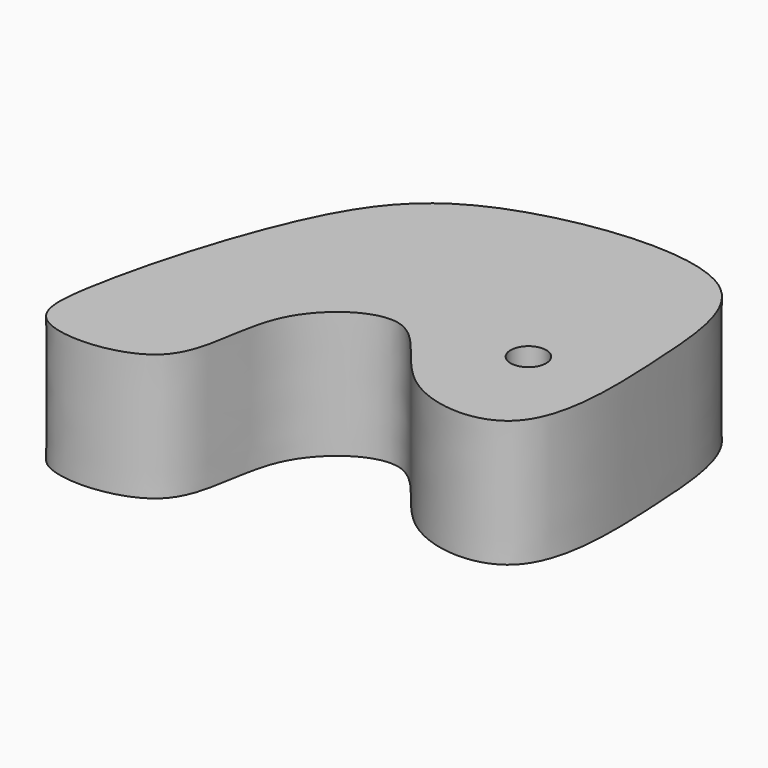
from build123d import *

# Parameters (mm, degrees)
F1_DEPTH = 25.4
F3_D     = 7.1374


with BuildPart() as f1:
    # F0 (on Top) → F1 (new body)
    with BuildSketch(Plane.XY):
        with BuildLine():
            add(Edge.make_bspline(
                [(-42.3956364393, -30.242299661), (-40.64086189, -19.2945110285), (-32.0166547854, 11.7834708258), (-13.9013101535, 34.9772320728), (39.9770178927, 40.967089314), (42.5505887471, 8.1134903983), (44.0755584278, -28.6665401407), (14.9225861746, -26.2753491243), (5.5185670036, -2.3001841673), (-17.0716638371, -17.2712878151), (-12.6816024674, -44.1229681057), (-43.551447393, -46.0277627868), (-43.3690874153, -36.3155217358), (-42.3956364393, -30.242299661)],
                knots=[0, 0, 0, 0, 0.1163306366, 0.2154312576, 0.3335872136, 0.4279291603, 0.5288096779, 0.6089527905, 0.6904097964, 0.7674824633, 0.8534858253, 0.9354662559, 1, 1, 1, 1], degree=3))
        make_face()
    extrude(amount=F1_DEPTH)

    # F3 (through all)
    with Locations(Plane.XY.offset(25.4)):
        with Locations((26.0696075857, -4.8347273842)):
            Hole(F3_D / 2)


solid = f1.part
